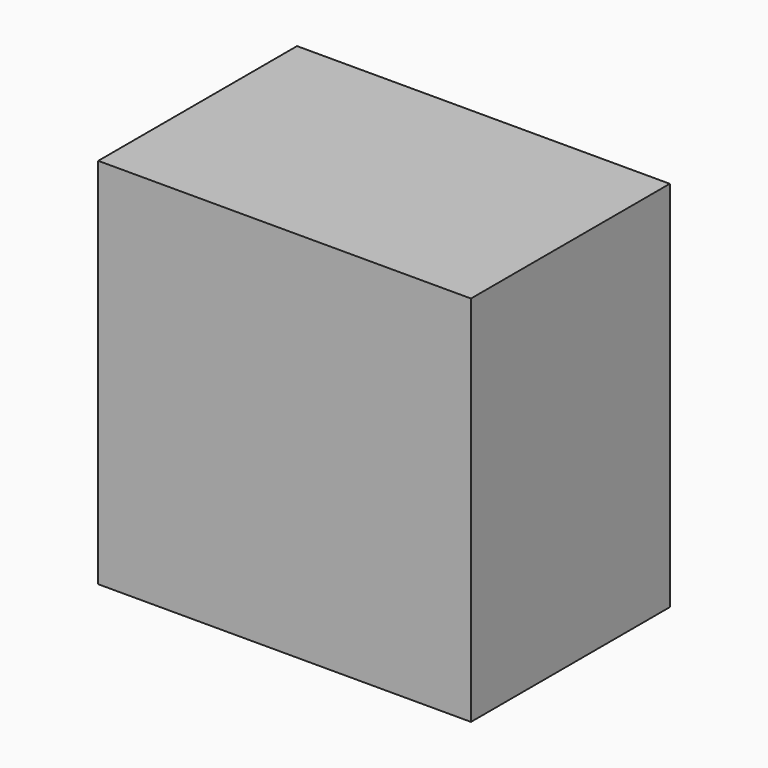
from build123d import *

# Parameters (mm, degrees)
SKETCH_W  = 300
SKETCH_H  = 200
PAD_DEPTH = 300


with BuildPart() as part:
    # Sketch → Pad (new body)
    with BuildSketch(Plane.XY):
        Rectangle(SKETCH_W, SKETCH_H)
    extrude(amount=PAD_DEPTH)


solid = part.part
